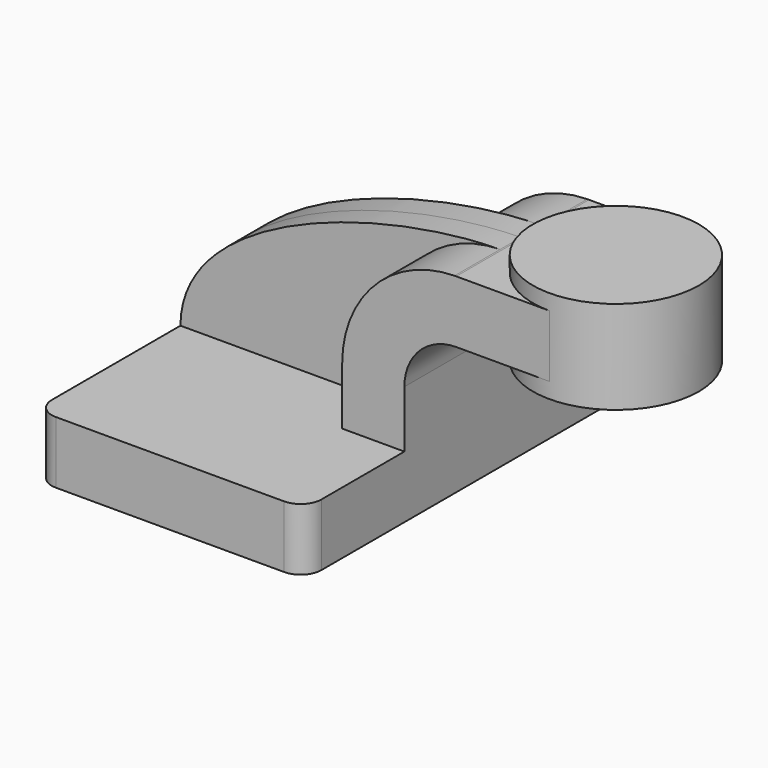
from build123d import *

# Parameters (mm, degrees)
F1_DEPTH = 63.5
F0_W     = 25.4
F0_H     = 19.05
F2_DEPTH = 25.4
F3_DEPTH = 7.9375
F5_R     = 6.35


with BuildPart() as f1:
    # F0 (on Front) → F1 (new body, symmetric)
    with BuildSketch(Plane.XZ):
        Polygon((22.225, 9.525), (-41.275, 9.525), (-41.275, -9.525), (41.275, -9.525), (41.275, 9.525), align=None)
    extrude(amount=F1_DEPTH, both=True)

    # F0 (on Front) → F2 (join, symmetric)
    with BuildSketch(Plane.XZ):
        with Locations((73.025, 52.4002)):
            Rectangle(F0_W, F0_H)
        with BuildLine():
            Line((22.225, 27.0002), (22.225, 9.525))
            Line((22.225, 9.525), (41.275, 9.525))
            Line((41.275, 9.525), (41.275, 27.0002))
            ThreePointArc((41.275, 27.0002), (45.9246798487, 38.2255201513), (57.15, 42.8752))
            Line((57.15, 42.8752), (60.325, 42.8752))
            Line((60.325, 42.8752), (60.325, 61.9252))
            Line((60.325, 61.9252), (57.15, 61.9252))
            add(Edge.make_bspline(
                [(56.6424278756, 61.9215114808), (56.8121178687, 61.9231320915), (56.981311275, 61.924361744), (57.15, 61.9252)],
                knots=[110.9960891503, 110.9960891503, 110.9960891503, 110.9960891503, 111.5045361635, 111.5045361635, 111.5045361635, 111.5045361635], degree=3))
            ThreePointArc((56.6424278756, 61.9215114808), (32.275489136, 51.5157936962), (22.225, 27.0002))
        make_face()
    extrude(amount=F2_DEPTH, both=True)

    # F0 (on Front) → F3 (join, symmetric)
    with BuildSketch(Plane.XZ):
        with BuildLine():
            add(Edge.make_bspline(
                [(-41.275, 9.525), (-41.1113175395, 42.5821639465), (19.5983994664, 61.5677254569), (56.6424278756, 61.9215114808)],
                knots=[0, 0, 0, 0, 110.9960891503, 110.9960891503, 110.9960891503, 110.9960891503], degree=3))
            Line((-41.275, 9.525), (22.225, 9.525))
            Line((22.225, 9.525), (22.225, 27.0002))
            ThreePointArc((22.225, 27.0002), (32.275489136, 51.5157936962), (56.6424278756, 61.9215114808))
        make_face()
    extrude(amount=F3_DEPTH, both=True)

    # F0 (on Front) → F4 (revolve)
    with BuildSketch(Plane.XZ):
        Polygon((85.725, 66.675), (85.725, 61.9252), (85.725, 42.8752), (85.725, 38.1), (111.125, 38.1), (111.125, 66.675), align=None)
    revolve(axis=Axis((85.725, 0, 52.3875), (0, 0, 1)))

    # F5
    f5_edges = [f1.edges().sort_by_distance(p)[0] for p in [
        (41.275, -63.5, 0),
        (-41.275, -63.5, 0),
        (41.275, 63.5, 0),
        (-41.275, 63.5, 0),
    ]]
    fillet(f5_edges, radius=F5_R)


solid = f1.part
